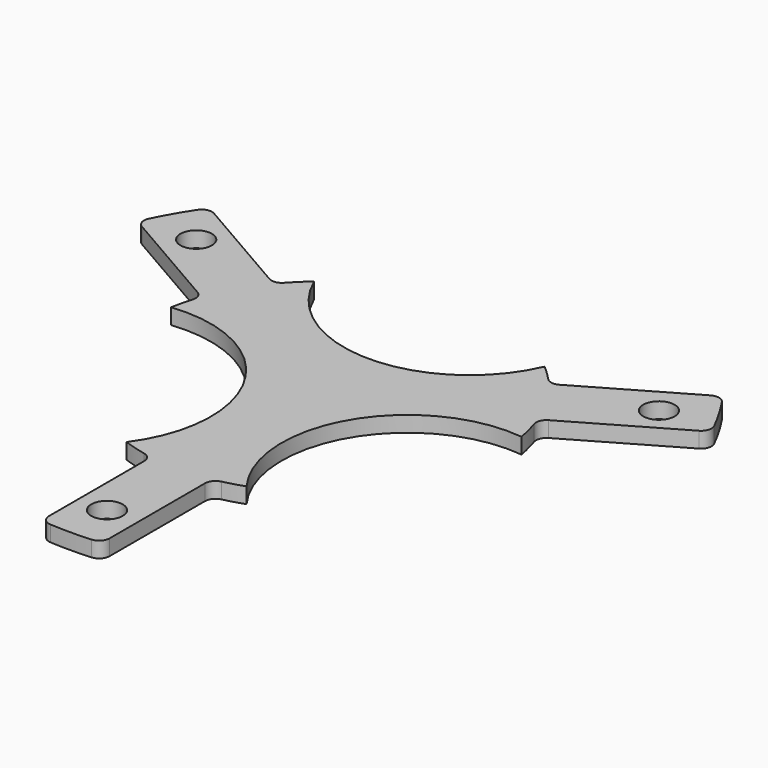
from build123d import *

# Parameters (mm, degrees)
F0_R     = 1.5
F1_DEPTH = 1.5


with BuildPart() as f1:
    # F0 (on Top) → F1 (new body)
    with BuildSketch(Plane.XY):
        with BuildLine():
            ThreePointArc((-23.679947, 16.87634), (-24.409064, 16.983713), (-25.013738, 16.562394))
            ThreePointArc((-25.013738, 16.562394), (-26.038785, 14.899049), (-26.953386, 13.172509))
            ThreePointArc((-26.953386, 13.172509), (-27.01136, 12.441433), (-26.55494, 11.8674))
            Line((-26.55494, 11.8674), (-16.698684, 6.176888))
            ThreePointArc((-16.698684, 6.176888), (-16.267754, 5.676061), (-16.243202, 5.015815))
            ThreePointArc((-16.243202, 5.015815), (-16.513498, 4.037868), (-16.724972, 3.045539))
            ThreePointArc((-16.724972, 3.045539), (-4.985979, -2.878656), (-5.724972, -16.00702))
            ThreePointArc((-5.724972, -16.00702), (-4.655459, -16.350129), (-3.565623, -16.621863))
            ThreePointArc((-3.565623, -16.621863), (-2.997631, -16.971027), (-2.775366, -17.59962))
            Line((-2.775366, -17.59962), (-2.775366, -28.945605))
            ThreePointArc((-2.775366, -28.945605), (-2.503795, -29.630726), (-1.836585, -29.94373))
            ThreePointArc((-1.836585, -29.94373), (0.116437, -29.999774), (2.068966, -29.928571))
            ThreePointArc((2.068966, -29.928571), (2.731083, -29.613241), (3, -28.930952))
            Line((3, -28.930952), (3, -17.549929))
            ThreePointArc((3, -17.549929), (3.218264, -16.926319), (3.777778, -16.574933))
            ThreePointArc((3.777778, -16.574933), (4.759852, -16.320043), (5.724972, -16.00702))
            ThreePointArc((5.724972, -16.00702), (4.985979, -2.878656), (16.724972, 3.045539))
            ThreePointArc((16.724972, 3.045539), (16.487356, 4.143319), (16.177767, 5.223011))
            ThreePointArc((16.177767, 5.223011), (16.196156, 5.889489), (16.629401, 6.396273))
            Line((16.629401, 6.396273), (26.455312, 12.069266))
            ThreePointArc((26.455312, 12.069266), (26.912859, 12.647013), (26.850323, 13.381336))
            ThreePointArc((26.850323, 13.381336), (25.922348, 15.100725), (24.88442, 16.756062))
            ThreePointArc((24.88442, 16.756062), (24.280277, 17.171808), (23.55494, 17.063552))
            Line((23.55494, 17.063552), (13.698684, 11.373041))
            ThreePointArc((13.698684, 11.373041), (13.04949, 11.250258), (12.465424, 11.559118))
            ThreePointArc((12.465424, 11.559118), (11.753646, 12.282175), (11, 12.961481))
            ThreePointArc((11, 12.961481), (0, 5.757313), (-11, 12.961481))
            ThreePointArc((-11, 12.961481), (-11.831897, 12.20681), (-12.612144, 11.398852))
            ThreePointArc((-12.612144, 11.398852), (-13.198525, 11.081538), (-13.854035, 11.203347))
            Line((-13.854035, 11.203347), (-23.679947, 16.87634))
        make_face()
        with Locations((0, -25.5)):
            Circle(F0_R, mode=Mode.SUBTRACT)
        with Locations((-22.083648, 12.75)):
            Circle(F0_R, mode=Mode.SUBTRACT)
        with Locations((22.083648, 12.75)):
            Circle(F0_R, mode=Mode.SUBTRACT)
    extrude(amount=F1_DEPTH)


solid = f1.part
